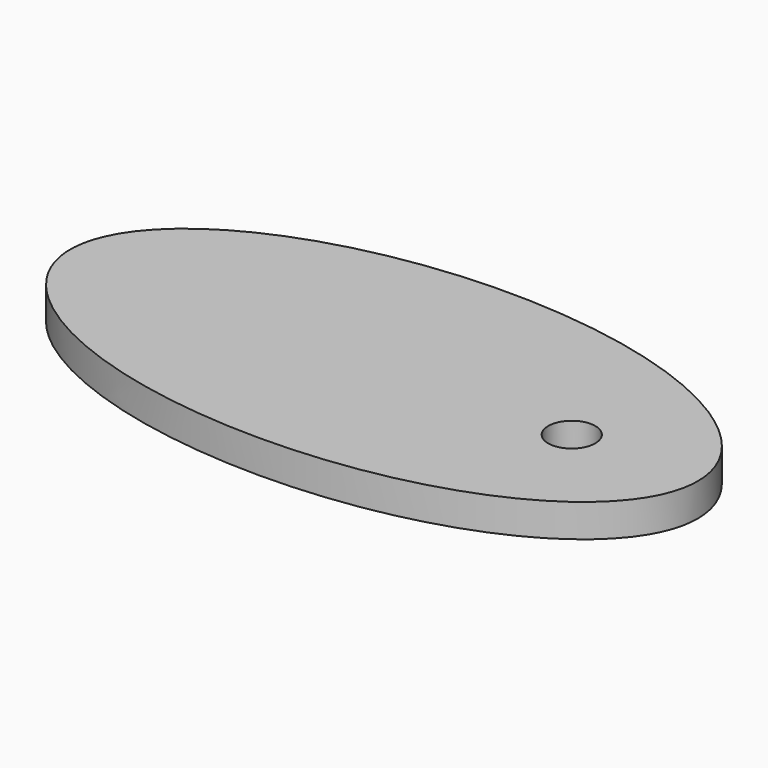
from build123d import *

# Parameters (mm, degrees)
F0_R     = 1.5
F1_DEPTH = 2.1


with BuildPart() as f1:
    # F0 (on Top) → F1 (new body)
    with BuildSketch(Plane.XY):
        with BuildLine():
            add(Edge.make_bspline(
                [(8.031463, 0), (8.031463, 17.320508), (-21.968537, 8.660254), (-51.968537, 0), (-21.968537, -8.660254), (8.031463, -17.320508), (8.031463, 0)],
                knots=[0, 0, 0, 2.094395, 2.094395, 4.18879, 4.18879, 6.283185, 6.283185, 6.283185], degree=2, weights=[1, 0.5, 1, 0.5, 1, 0.5, 1]))
        make_face()
        Circle(F0_R, mode=Mode.SUBTRACT)
    extrude(amount=F1_DEPTH)


solid = f1.part
